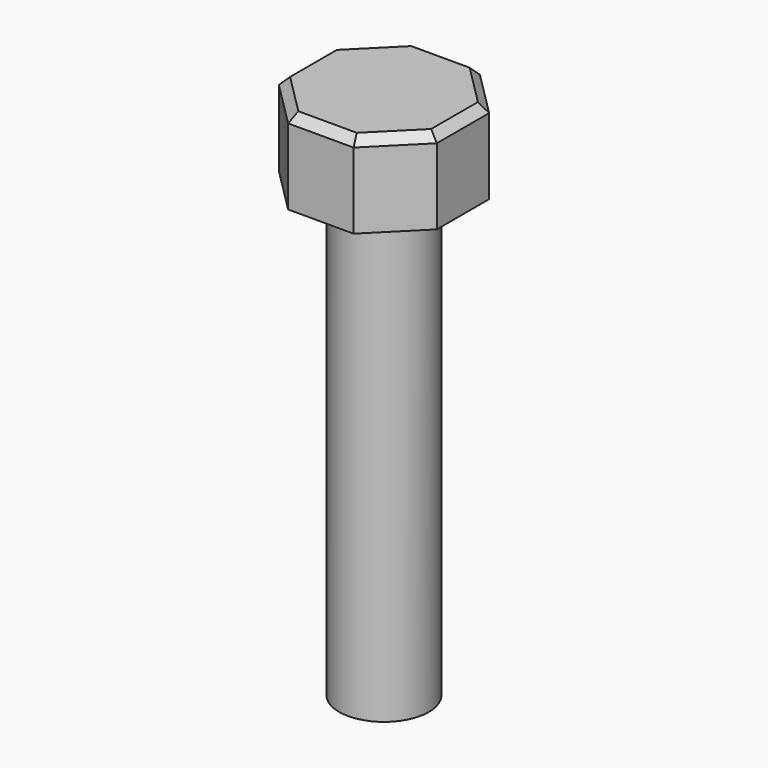
from build123d import *

# Parameters (mm, degrees)
F2_DEPTH = 15
F0_R     = 8
F3_DEPTH = 80
F4_SIZE  = 1.5


with BuildPart() as f2:
    # F1 (on face) → F2 (new body)
    with BuildSketch(Plane.XY):
        Polygon((14.062501, -5.824878), (14.062501, 5.824878), (5.824878, 14.062501), (-5.824878, 14.062501), (-14.062501, 5.824878), (-14.062501, -5.824878), (-5.824878, -14.062501), (5.824878, -14.062501), align=None)
    extrude(amount=F2_DEPTH)

    # F0 (on Top) → F3 (join)
    with BuildSketch(Plane.XY):
        Circle(F0_R)
    extrude(amount=-F3_DEPTH)

    # F4
    f4_edges = [f2.edges().sort_by_distance(p)[0] for p in [
        (0, -14.062501, 15),
        (9.94369, -9.94369, 15),
        (14.062501, 0, 15),
        (9.94369, 9.94369, 15),
        (0, 14.062501, 15),
        (-9.94369, 9.94369, 15),
        (-14.062501, 0, 15),
        (-9.94369, -9.94369, 15),
    ]]
    chamfer(f4_edges, length=F4_SIZE)


solid = f2.part
